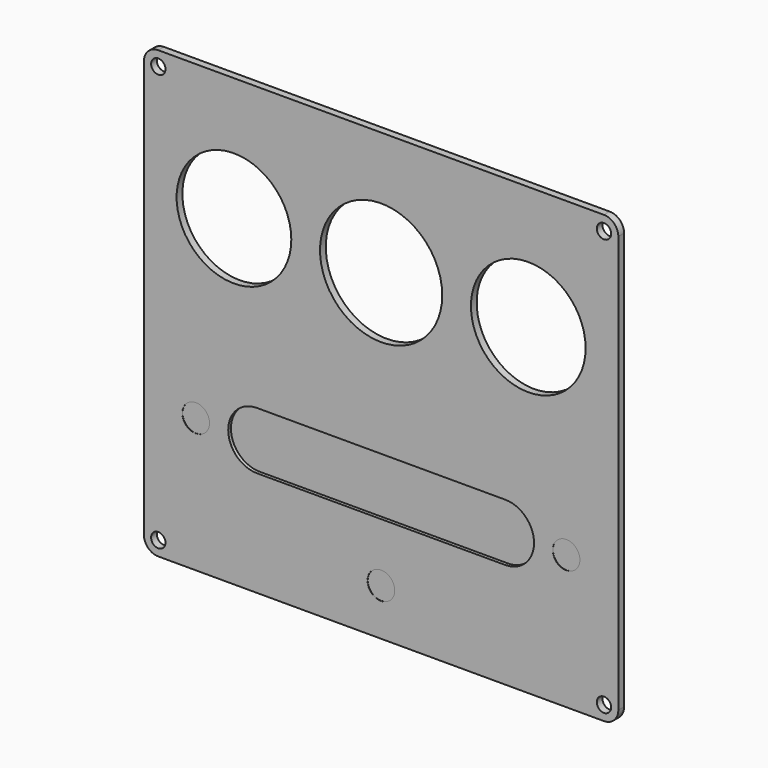
from build123d import *

# Parameters (mm, degrees)
F1_DEPTH = 3.175
F2_R     = 3.175
F3_DEPTH = 25.4
F5_DEPTH = 1.5
F6_R     = 6
F7_DEPTH = 0.1
F8_R     = 25.33
F8_R_2   = 26.99
F9_DEPTH = 3.176


with BuildPart() as f1:
    # F0 (on Front) → F1 (new body)
    with BuildSketch(Plane.XZ):
        with BuildLine():
            Line((98.425, 98.425), (-98.425, 98.425))
            ThreePointArc((-98.425, 98.425), (-102.915128, 96.565128), (-104.775, 92.075))
            Line((-104.775, 92.075), (-104.775, -92.075))
            ThreePointArc((-104.775, -92.075), (-102.915128, -96.565128), (-98.425, -98.425))
            Line((-98.425, -98.425), (98.425, -98.425))
            ThreePointArc((98.425, -98.425), (102.915128, -96.565128), (104.775, -92.075))
            Line((104.775, -92.075), (104.775, 92.075))
            ThreePointArc((104.775, 92.075), (102.915128, 96.565128), (98.425, 98.425))
        make_face()
    extrude(amount=F1_DEPTH)

    # F2 (on face) → F3 (cut)
    with BuildSketch(Plane.XZ.offset(3.175)):
        with Locations((-98.425, 92.075)):
            Circle(F2_R)
        with Locations((98.425, 92.075)):
            Circle(F2_R)
        with Locations((98.425, -92.075)):
            Circle(F2_R)
        with Locations((-98.425, -92.075)):
            Circle(F2_R)
    extrude(amount=-F3_DEPTH, mode=Mode.SUBTRACT)

    # F4 (on face) → F5 (cut)
    with BuildSketch(Plane.XZ.offset(3.175)):
        with BuildLine():
            Line((54.84, -26.5), (-54.84, -26.5))
            ThreePointArc((-54.84, -26.5), (-63.820256, -30.219744), (-67.54, -39.2))
            ThreePointArc((-67.54, -39.2), (-63.820256, -48.180256), (-54.84, -51.9))
            Line((-54.84, -51.9), (54.84, -51.9))
            ThreePointArc((54.84, -51.9), (63.820256, -48.180256), (67.54, -39.2))
            ThreePointArc((67.54, -39.2), (63.820256, -30.219744), (54.84, -26.5))
        make_face()
    extrude(amount=-F5_DEPTH, mode=Mode.SUBTRACT)

    # F6 (on face) → F7 (cut)
    with BuildSketch(Plane.XZ.offset(3.175)):
        with Locations((-81.8, -39.2)):
            Circle(F6_R)
        with Locations((0, -77.7)):
            Circle(F6_R)
        with Locations((81.8, -39.2)):
            Circle(F6_R)
    extrude(amount=-F7_DEPTH, mode=Mode.SUBTRACT)

    # F8 (on face) → F9 (cut, through all)
    with BuildSketch(Plane.XZ.offset(3.175)):
        with Locations((-65, 43.9)):
            Circle(F8_R)
        with Locations((65, 43.9)):
            Circle(F8_R)
        with Locations((0, 43.9)):
            Circle(F8_R_2)
    extrude(amount=-F9_DEPTH, mode=Mode.SUBTRACT)


solid = f1.part
